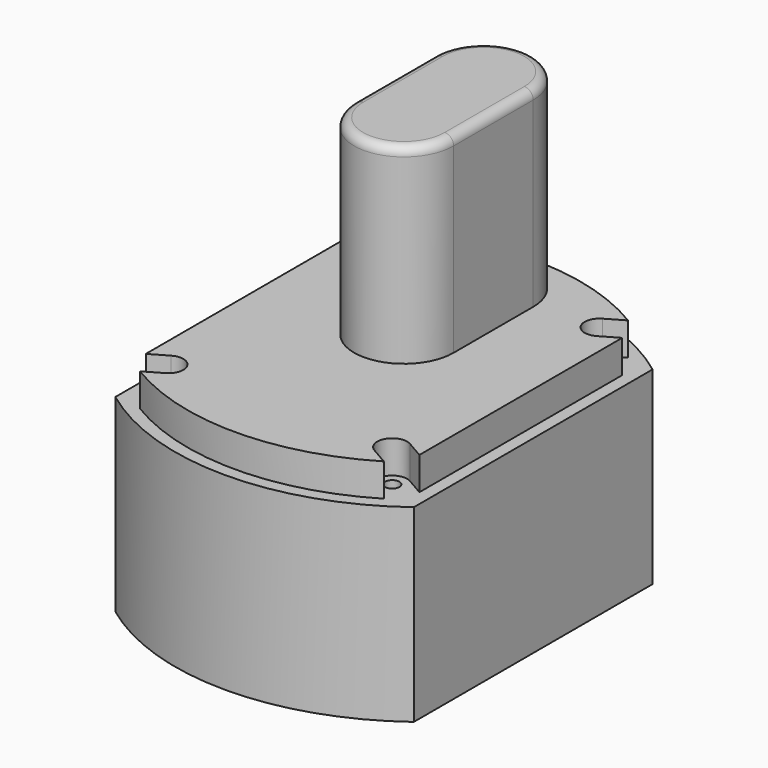
from build123d import *

# Parameters (mm, degrees)
F1_DEPTH = 48.26
F3_DEPTH = 8.382
F5_DEPTH = 8.382
F6_R     = 1.8288
F7_DEPTH = 32.8422
F9_DEPTH = 57.15
F10_R    = 2.286


with BuildPart() as f1:
    # F0 (on Top) → F1 (new body)
    with BuildSketch(Plane.XY):
        with BuildLine():
            Line((-38.1, 38.1), (-38.1, -38.1))
            ThreePointArc((-38.1, -38.1), (0, -50.8), (38.1, -38.1))
            Line((38.1, -38.1), (38.1, 38.1))
            ThreePointArc((38.1, 38.1), (0, 50.8), (-38.1, 38.1))
        make_face()
    extrude(amount=-F1_DEPTH)

    # F2 (on face) → F3 (join)
    with BuildSketch(Plane.XY):
        with BuildLine():
            ThreePointArc((34.925, 36.486888), (0, 47.625), (-34.925, 36.486888))
            Line((-34.925, 36.486888), (-34.925, -36.486888))
            ThreePointArc((-34.925, -36.486888), (0, -47.625), (34.925, -36.486888))
            Line((34.925, -36.486888), (34.925, 36.486888))
        make_face()
    extrude(amount=F3_DEPTH)

    # F4 (on face) → F5 (cut, through all)
    with BuildSketch(Plane.XY.offset(8.382)):
        with BuildLine():
            ThreePointArc((-26.67, -36.395757), (-25.275443, -31.1912), (-30.48, -29.796643))
            Line((-30.48, -29.796643), (-52.477045, -42.496643))
            ThreePointArc((-52.477045, -42.496643), (-53.871602, -47.7012), (-48.667045, -49.095757))
            Line((-48.667045, -49.095757), (-26.67, -36.395757))
        make_face()
        with BuildLine():
            Line((52.477045, -42.496643), (30.48, -29.796643))
            ThreePointArc((30.48, -29.796643), (25.275443, -31.1912), (26.67, -36.395757))
            Line((26.67, -36.395757), (48.667045, -49.095757))
            ThreePointArc((48.667045, -49.095757), (53.871602, -47.7012), (52.477045, -42.496643))
        make_face()
        with BuildLine():
            Line((-52.477045, 42.496643), (-30.48, 29.796643))
            ThreePointArc((-30.48, 29.796643), (-25.275443, 31.1912), (-26.67, 36.395757))
            Line((-26.67, 36.395757), (-48.667045, 49.095757))
            ThreePointArc((-48.667045, 49.095757), (-53.871602, 47.7012), (-52.477045, 42.496643))
        make_face()
        with BuildLine():
            ThreePointArc((26.67, 36.395757), (25.275443, 31.1912), (30.48, 29.796643))
            Line((30.48, 29.796643), (52.477045, 42.496643))
            ThreePointArc((52.477045, 42.496643), (53.871602, 47.7012), (48.667045, 49.095757))
            Line((48.667045, 49.095757), (26.67, 36.395757))
        make_face()
    extrude(amount=-F5_DEPTH, mode=Mode.SUBTRACT)

    # F6 (on face) → F7 (cut)
    with BuildSketch(Plane.XY):
        with Locations((28.575, -33.0962)):
            Circle(F6_R)
        with Locations((-28.575, -33.0962)):
            Circle(F6_R)
        with Locations((28.575, 33.0962)):
            Circle(F6_R)
        with Locations((-28.575, 33.0962)):
            Circle(F6_R)
    extrude(amount=-F7_DEPTH, mode=Mode.SUBTRACT)

    # F8 (on Top) → F9 (join)
    with BuildSketch(Plane.XY):
        with BuildLine():
            ThreePointArc((-12.7, 6.35), (0, -6.35), (12.7, 6.35))
            Line((12.7, 6.35), (12.7, 31.75))
            ThreePointArc((12.7, 31.75), (0, 44.45), (-12.7, 31.75))
            Line((-12.7, 31.75), (-12.7, 6.35))
        make_face()
    extrude(amount=F9_DEPTH)

    # F10
    f10_edges = [f1.edges().sort_by_distance(p)[0] for p in [
        (12.7, 19.05, 57.15),
    ]]
    fillet(f10_edges, radius=F10_R)


solid = f1.part
